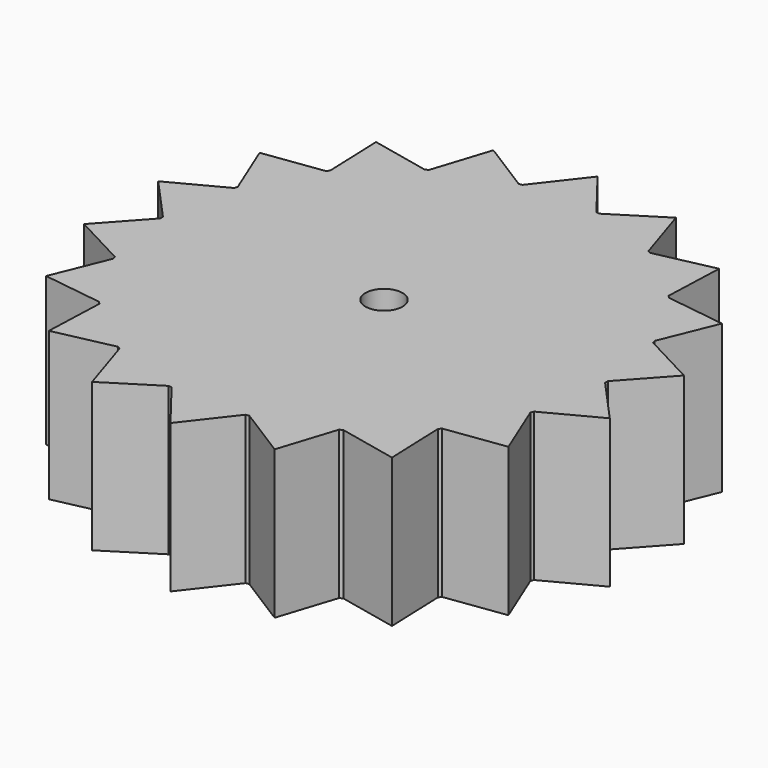
from build123d import *

# Parameters (mm, degrees)
F0_R     = 3.175
F1_DEPTH = 25.4


with BuildPart() as f1:
    # F0 (on Top) → F1 (new body)
    with BuildSketch(Plane.XY):
        with BuildLine():
            Line((0, 45.72), (-6.327913, 37.570833))
            ThreePointArc((-6.327913, 37.570833), (-6.615996, 37.521175), (-6.903689, 37.469309))
            Line((-6.903689, 37.469309), (-15.637161, 42.962747))
            Line((-15.637161, 42.962747), (-18.796275, 33.140761))
            ThreePointArc((-18.796275, 33.140761), (-19.05, 32.995568), (-19.302604, 32.848432))
            Line((-19.302604, 32.848432), (-29.38825, 35.023552))
            Line((-29.38825, 35.023552), (-28.997529, 24.713424))
            ThreePointArc((-28.997529, 24.713424), (-29.186293, 24.490208), (-29.37334, 24.26555))
            Line((-29.37334, 24.26555), (-39.594681, 22.86))
            Line((-39.594681, 22.86), (-35.701253, 13.305283))
            ThreePointArc((-35.701253, 13.305283), (-35.802289, 13.030967), (-35.901217, 12.755885))
            Line((-35.901217, 12.755885), (-45.02541, 7.939195))
            Line((-45.02541, 7.939195), (-38.098879, 0.292329))
            ThreePointArc((-38.098879, 0.292329), (-38.1, 0), (-38.098879, -0.292329))
            Line((-38.098879, -0.292329), (-45.02541, -7.939195))
            Line((-45.02541, -7.939195), (-35.901217, -12.755885))
            ThreePointArc((-35.901217, -12.755885), (-35.802289, -13.030967), (-35.701253, -13.305283))
            Line((-35.701253, -13.305283), (-39.594681, -22.86))
            Line((-39.594681, -22.86), (-29.37334, -24.26555))
            ThreePointArc((-29.37334, -24.26555), (-29.186293, -24.490208), (-28.997529, -24.713424))
            Line((-28.997529, -24.713424), (-29.38825, -35.023552))
            Line((-29.38825, -35.023552), (-19.302604, -32.848432))
            ThreePointArc((-19.302604, -32.848432), (-19.05, -32.995568), (-18.796275, -33.140761))
            Line((-18.796275, -33.140761), (-15.637161, -42.962747))
            Line((-15.637161, -42.962747), (-6.903689, -37.469309))
            ThreePointArc((-6.903689, -37.469309), (-6.615996, -37.521175), (-6.327913, -37.570833))
            Line((-6.327913, -37.570833), (0, -45.72))
            Line((0, -45.72), (6.327913, -37.570833))
            ThreePointArc((6.327913, -37.570833), (6.615996, -37.521175), (6.903689, -37.469309))
            Line((6.903689, -37.469309), (15.637161, -42.962747))
            Line((15.637161, -42.962747), (18.796275, -33.140761))
            ThreePointArc((18.796275, -33.140761), (19.05, -32.995568), (19.302604, -32.848432))
            Line((19.302604, -32.848432), (29.38825, -35.023552))
            Line((29.38825, -35.023552), (28.997529, -24.713424))
            ThreePointArc((28.997529, -24.713424), (29.186293, -24.490208), (29.37334, -24.26555))
            Line((29.37334, -24.26555), (39.594681, -22.86))
            Line((39.594681, -22.86), (35.701253, -13.305283))
            ThreePointArc((35.701253, -13.305283), (35.802289, -13.030967), (35.901217, -12.755885))
            Line((35.901217, -12.755885), (45.02541, -7.939195))
            Line((45.02541, -7.939195), (38.098879, -0.292329))
            ThreePointArc((38.098879, -0.292329), (38.1, 0), (38.098879, 0.292329))
            Line((38.098879, 0.292329), (45.02541, 7.939195))
            Line((45.02541, 7.939195), (35.901217, 12.755885))
            ThreePointArc((35.901217, 12.755885), (35.802289, 13.030967), (35.701253, 13.305283))
            Line((35.701253, 13.305283), (39.594681, 22.86))
            Line((39.594681, 22.86), (29.37334, 24.26555))
            ThreePointArc((29.37334, 24.26555), (29.186293, 24.490208), (28.997529, 24.713424))
            Line((28.997529, 24.713424), (29.38825, 35.023552))
            Line((29.38825, 35.023552), (19.302604, 32.848432))
            ThreePointArc((19.302604, 32.848432), (19.05, 32.995568), (18.796275, 33.140761))
            Line((18.796275, 33.140761), (15.637161, 42.962747))
            Line((15.637161, 42.962747), (6.903689, 37.469309))
            ThreePointArc((6.903689, 37.469309), (6.615996, 37.521175), (6.327913, 37.570833))
            Line((6.327913, 37.570833), (0, 45.72))
        make_face()
        Circle(F0_R, mode=Mode.SUBTRACT)
    extrude(amount=F1_DEPTH)


solid = f1.part
